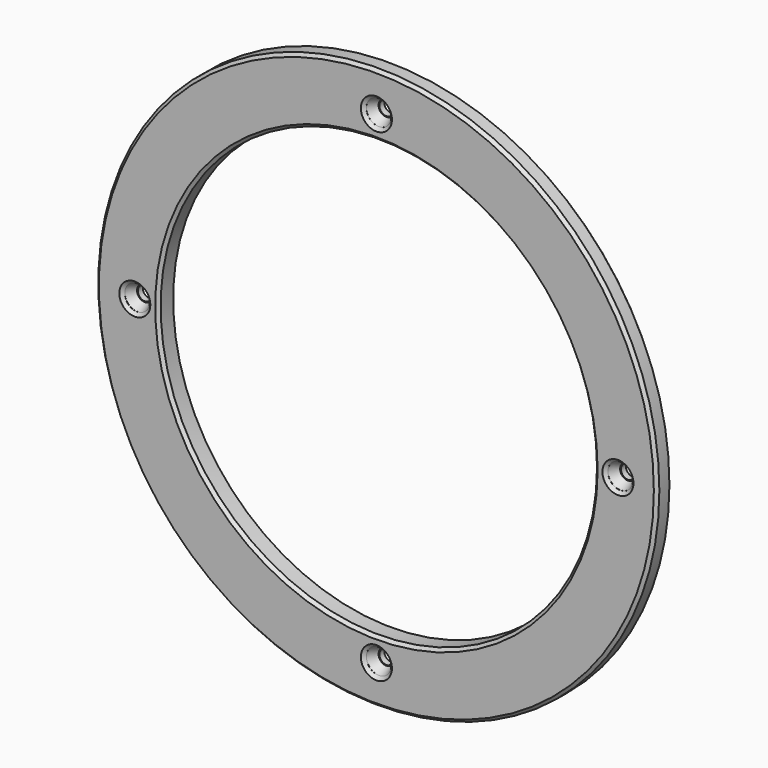
from build123d import *

# Parameters (mm, degrees)
SKETCH058_R        = 45
SKETCH058_R_2      = 35
SKETCH058_R_3      = 1.125
PAD018_DEPTH       = 3
SKETCH059_R        = 2
POCKET040_DEPTH    = 2
CHAMFER010_1_SIZE2 = 0.75
CHAMFER010_1_SIZE  = 1.5
CHAMFER010_2_SIZE2 = 0.75
CHAMFER010_2_SIZE  = 1.5
CHAMFER010_3_SIZE2 = 0.75
CHAMFER010_3_SIZE  = 1.5
CHAMFER010_4_SIZE2 = 0.75
CHAMFER010_4_SIZE  = 1.5
CHAMFER011_SIZE    = 0.49


with BuildPart() as part:
    # Sketch058 (on Face1 of ShapeBinder010) → Pad018 (new body)
    with BuildSketch(Plane(origin=(248, 250.5, 0), x_dir=(1, 0, 0), z_dir=(0, -1, 0))):
        with Locations((-124, 113.916594)):
            Circle(SKETCH058_R)
        with Locations((-124, 113.916594)):
            Circle(SKETCH058_R_2, mode=Mode.SUBTRACT)
        with Locations((-162.75, 113.916594)):
            Circle(SKETCH058_R_3, mode=Mode.SUBTRACT)
        with Locations((-124, 152.666594)):
            Circle(SKETCH058_R_3, mode=Mode.SUBTRACT)
        with Locations((-85.25, 113.916594)):
            Circle(SKETCH058_R_3, mode=Mode.SUBTRACT)
        with Locations((-124, 75.166594)):
            Circle(SKETCH058_R_3, mode=Mode.SUBTRACT)
    extrude(amount=PAD018_DEPTH)

    # Sketch059 (on Face8 of Pad018) → Pocket040 (cut)
    with BuildSketch(Plane(origin=(248, 247.5, 0), x_dir=(1, 0, 0), z_dir=(0, -1, 0))):
        with Locations((-85.25, 113.916594)):
            Circle(SKETCH059_R)
        with Locations((-124, 152.666594)):
            Circle(SKETCH059_R)
        with Locations((-162.75, 113.916594)):
            Circle(SKETCH059_R)
        with Locations((-124, 75.166594)):
            Circle(SKETCH059_R)
    extrude(amount=-POCKET040_DEPTH, mode=Mode.SUBTRACT)

    # Chamfer010 1
    chamfer010_1_edges = [part.edges().sort_by_distance(p)[0] for p in [
        (160.75, 249.5, 113.916594),
    ]]
    chamfer010_1_side = part.faces().sort_by_distance((160.75, 248.5, 113.916594))[0]
    chamfer(chamfer010_1_edges, length=CHAMFER010_1_SIZE, length2=CHAMFER010_1_SIZE2, reference=chamfer010_1_side)

    # Chamfer010 2
    chamfer010_2_edges = [part.edges().sort_by_distance(p)[0] for p in [
        (83.25, 249.5, 113.916594),
    ]]
    chamfer010_2_side = part.faces().sort_by_distance((83.25, 248.5, 113.916594))[0]
    chamfer(chamfer010_2_edges, length=CHAMFER010_2_SIZE, length2=CHAMFER010_2_SIZE2, reference=chamfer010_2_side)

    # Chamfer010 3
    chamfer010_3_edges = [part.edges().sort_by_distance(p)[0] for p in [
        (122, 249.5, 152.666594),
    ]]
    chamfer010_3_side = part.faces().sort_by_distance((122, 248.5, 152.666594))[0]
    chamfer(chamfer010_3_edges, length=CHAMFER010_3_SIZE, length2=CHAMFER010_3_SIZE2, reference=chamfer010_3_side)

    # Chamfer010 4
    chamfer010_4_edges = [part.edges().sort_by_distance(p)[0] for p in [
        (122, 249.5, 75.166594),
    ]]
    chamfer010_4_side = part.faces().sort_by_distance((122, 248.5, 75.166594))[0]
    chamfer(chamfer010_4_edges, length=CHAMFER010_4_SIZE, length2=CHAMFER010_4_SIZE2, reference=chamfer010_4_side)

    # Chamfer011
    chamfer011_edges = [part.edges().sort_by_distance(p)[0] for p in [
        (79, 250.5, 113.916594),
        (79, 247.5, 113.916594),
        (122, 247.5, 152.666594),
        (83.25, 247.5, 113.916594),
        (122, 247.5, 75.166594),
        (89, 247.5, 113.916594),
        (160.75, 247.5, 113.916594),
    ]]
    chamfer(chamfer011_edges, length=CHAMFER011_SIZE)


solid = part.part
